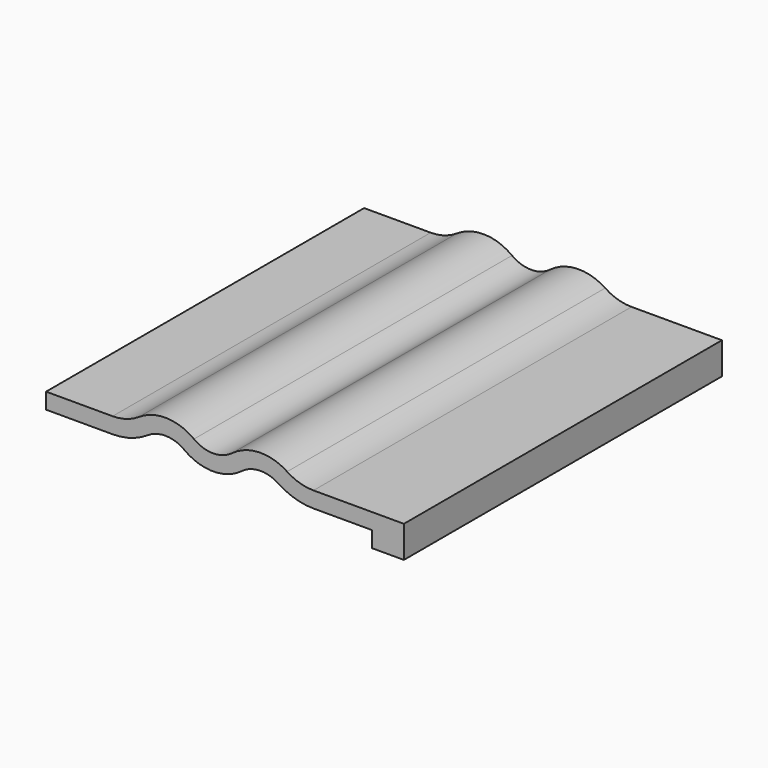
from build123d import *

# Parameters (mm, degrees)
F1_DEPTH = 50


with BuildPart() as f1:
    # F0 (on Front) → F1 (new body)
    with BuildSketch(Plane.XZ):
        with BuildLine():
            Line((0, -4), (0, 0))
            Line((0, 0), (-11.36675, 0))
            ThreePointArc((-11.36675, 0), (-13.098801, 0.255437), (-14.683375, 1))
            ThreePointArc((-14.683375, 1), (-18.173423, 1.997493), (-21.6, 0.8))
            ThreePointArc((-21.6, 0.8), (-24, 0), (-26.4, 0.8))
            ThreePointArc((-26.4, 0.8), (-29.826577, 1.997493), (-33.316625, 1))
            ThreePointArc((-33.316625, 1), (-34.901199, 0.255437), (-36.63325, 0))
            Line((-36.63325, 0), (-45, 0))
            Line((-45, 0), (-45, -2))
            Line((-45, -2), (-36.63325, -2))
            ThreePointArc((-36.63325, -2), (-34.323849, -1.659417), (-32.211083, -0.666667))
            ThreePointArc((-32.211083, -0.666667), (-29.884385, -0.001671), (-27.6, -0.8))
            ThreePointArc((-27.6, -0.8), (-24, -2), (-20.4, -0.8))
            ThreePointArc((-20.4, -0.8), (-18.115615, -0.001671), (-15.788917, -0.666667))
            ThreePointArc((-15.788917, -0.666667), (-13.676151, -1.659417), (-11.36675, -2))
            Line((-11.36675, -2), (-4, -2))
            Line((-4, -2), (-4, -4))
            Line((-4, -4), (0, -4))
        make_face()
    extrude(amount=F1_DEPTH)


solid = f1.part
